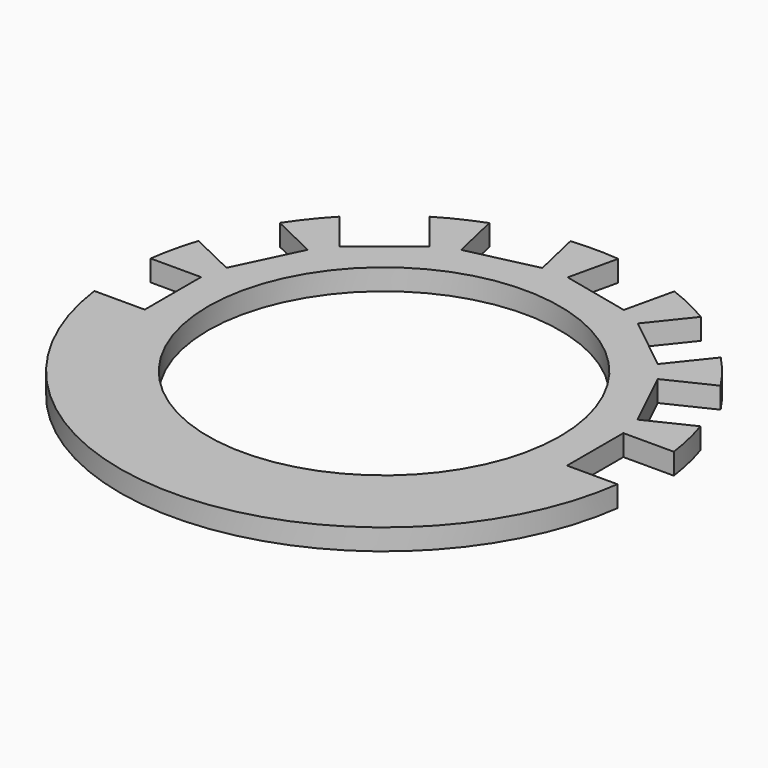
from build123d import *

# Parameters (mm, degrees)
SKETCH_R           = 37.5
SKETCH_R_2         = 25
PAD_DEPTH          = 3
SKETCH001_W        = 10
SKETCH001_H        = 10
POCKET_DEPTH       = 215.21787
POLARPATTERN_COUNT = 8
POLARPATTERN_ANGLE = 180


with BuildPart() as part:
    # Sketch → Pad (new body)
    with BuildSketch(Plane.XY):
        Circle(SKETCH_R)
        Circle(SKETCH_R_2, mode=Mode.SUBTRACT)
    extrude(amount=PAD_DEPTH)

    # Sketch001 (on Face4 of Pad) → Pocket (cut, through all)
    with BuildSketch(Plane.XY.offset(3)):
        with Locations((-35, 0)):
            Rectangle(SKETCH001_W, SKETCH001_H)
    pocket = extrude(amount=-POCKET_DEPTH, mode=Mode.SUBTRACT)

    # PolarPattern: Pocket ×8 about axis
    polarpattern_axis = Axis((0, 0, 3), (0, 0, -1))
    for i in range(1, POLARPATTERN_COUNT):
        add(pocket.rotate(polarpattern_axis, i * POLARPATTERN_ANGLE / (POLARPATTERN_COUNT - 1)), mode=Mode.SUBTRACT)


solid = part.part
